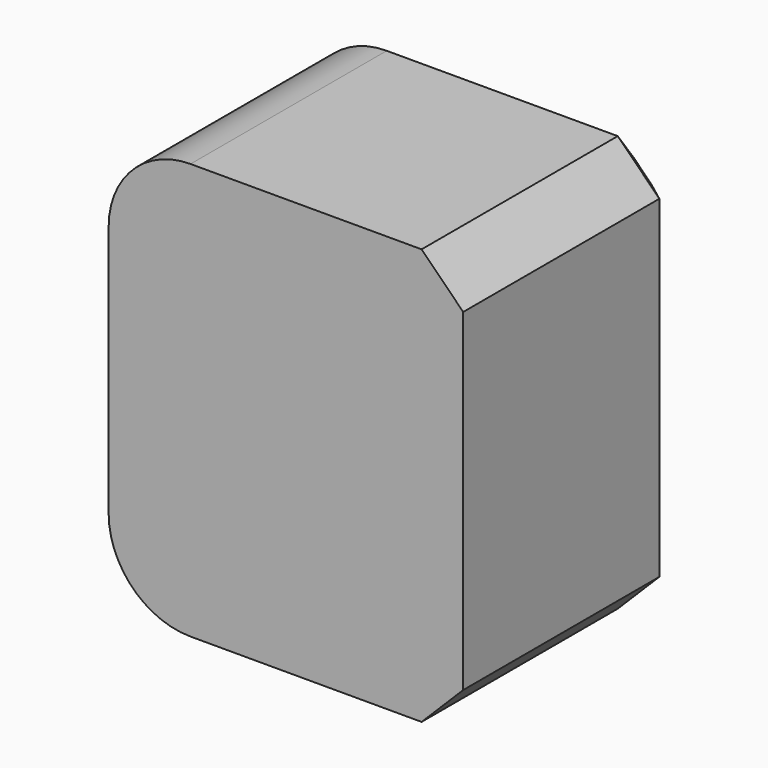
from build123d import *

# Parameters (mm, degrees)
F0_W     = 43.2927459478
F0_H     = 35.019159317
F1_DEPTH = 50.8
F2_R     = 10
F3_R     = 10
F4_SIZE  = 5.08
F5_SIZE  = 5.08
F6_SIZE  = 5.08


with BuildPart() as f1:
    # F0 (on Top) → F1 (new body)
    with BuildSketch(Plane.XY):
        with Locations((-21.6463729739, 17.5095796585)):
            Rectangle(F0_W, F0_H)
    extrude(amount=F1_DEPTH)

    # F2
    f2_edges = [f1.edges().sort_by_distance(p)[0] for p in [
        (-43.292746, 17.50958, 50.8),
    ]]
    fillet(f2_edges, radius=F2_R)

    # F3
    f3_edges = [f1.edges().sort_by_distance(p)[0] for p in [
        (-43.292746, 17.50958, 0),
    ]]
    fillet(f3_edges, radius=F3_R)

    # F4
    f4_edges = [f1.edges().sort_by_distance(p)[0] for p in [
        (0, 17.50958, 0),
    ]]
    chamfer(f4_edges, length=F4_SIZE)

    # F5
    f5_edges = [f1.edges().sort_by_distance(p)[0] for p in [
        (0, 17.50958, 50.8),
    ]]
    chamfer(f5_edges, length=F5_SIZE)

    # F6
    f6_edges = [f1.edges().sort_by_distance(p)[0] for p in [
        (-2.54, 35.019159, 2.54),
        (-19.186373, 35.019159, 50.8),
        (0, 35.019159, 25.4),
        (-40.363814, 35.019159, 47.871068),
        (-19.186373, 35.019159, 0),
        (-2.54, 35.019159, 48.26),
        (-40.363814, 35.019159, 2.928932),
        (-43.292746, 35.019159, 25.4),
    ]]
    chamfer(f6_edges, length=F6_SIZE)


solid = f1.part
